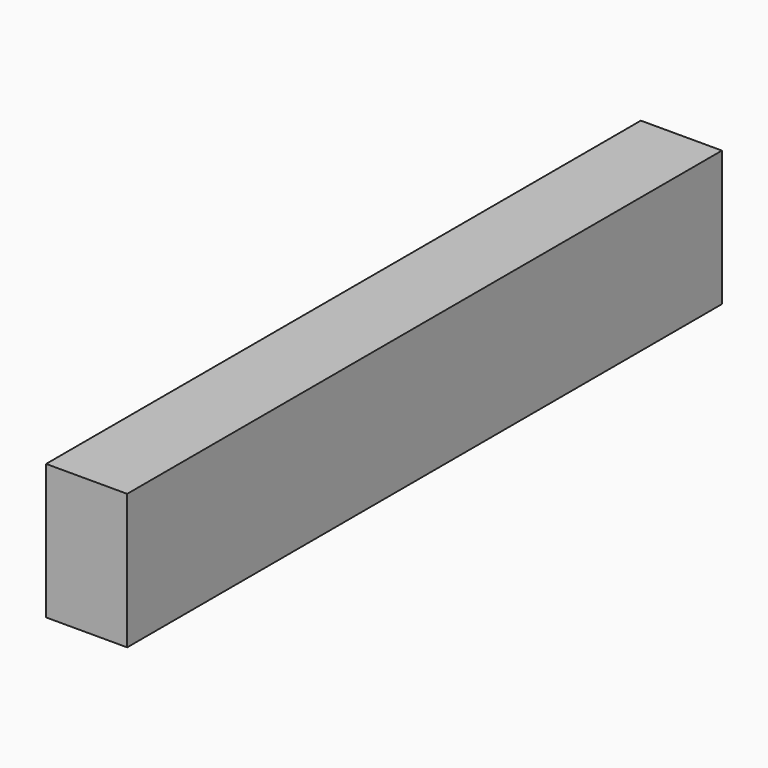
from build123d import *

# Parameters (mm, degrees)
SKETCH_W  = 60
SKETCH_H  = 100
PAD_DEPTH = 275


with BuildPart() as part:
    # Sketch → Pad (new body, symmetric)
    with BuildSketch(Plane.XZ):
        Rectangle(SKETCH_W, SKETCH_H)
    extrude(amount=PAD_DEPTH, both=True)


solid = part.part
